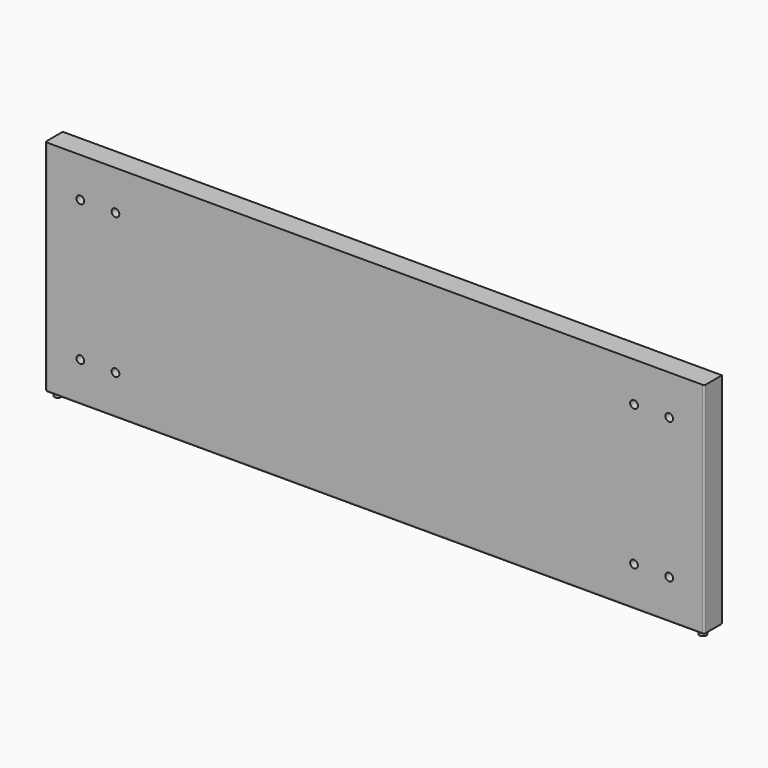
from build123d import *

# Parameters (mm, degrees)
F0_W     = 750
F0_H     = 250
F1_DEPTH = 25
F2_R     = 4
F3_DEPTH = 5
F4_R     = 2
F5_R     = 2
F7_D     = 8.8
F7_DEPTH = 12
F7_TIP   = 2.6437867237


with BuildPart() as f1:
    # F0 (on Front) → F1 (new body)
    with BuildSketch(Plane.XZ):
        Rectangle(F0_W, F0_H)
    extrude(amount=F1_DEPTH)

    # F2 (on face) → F3 (join)
    with BuildSketch(Plane(origin=(0, 0, -125), x_dir=(1, 0, 0), z_dir=(0, 0, -1))):
        with Locations((-367, 17)):
            Circle(F2_R)
        with Locations((367, 17)):
            Circle(F2_R)
    extrude(amount=F3_DEPTH)

    # F4
    f4_edges = [f1.edges().sort_by_distance(p)[0] for p in [
        (0, -25, -125),
    ]]
    fillet(f4_edges, radius=F4_R)

    # F5
    f5_edges = [f1.edges().sort_by_distance(p)[0] for p in [
        (-375, -11.5, -125),
        (375, -11.5, -125),
    ]]
    fillet(f5_edges, radius=F5_R)

    # F7
    with Locations(Plane.XZ.offset(25)):
        with Locations((-335, 80), (-295, 80), (-295, -80), (-335, -80), (295, 80), (335, 80), (295, -80), (335, -80)):
            Hole(F7_D / 2, depth=F7_DEPTH)
            with Locations((0, 0, -(F7_DEPTH + F7_TIP / 2))):  # 118° drill point
                Cone(0, F7_D / 2, F7_TIP, mode=Mode.SUBTRACT)


solid = f1.part
